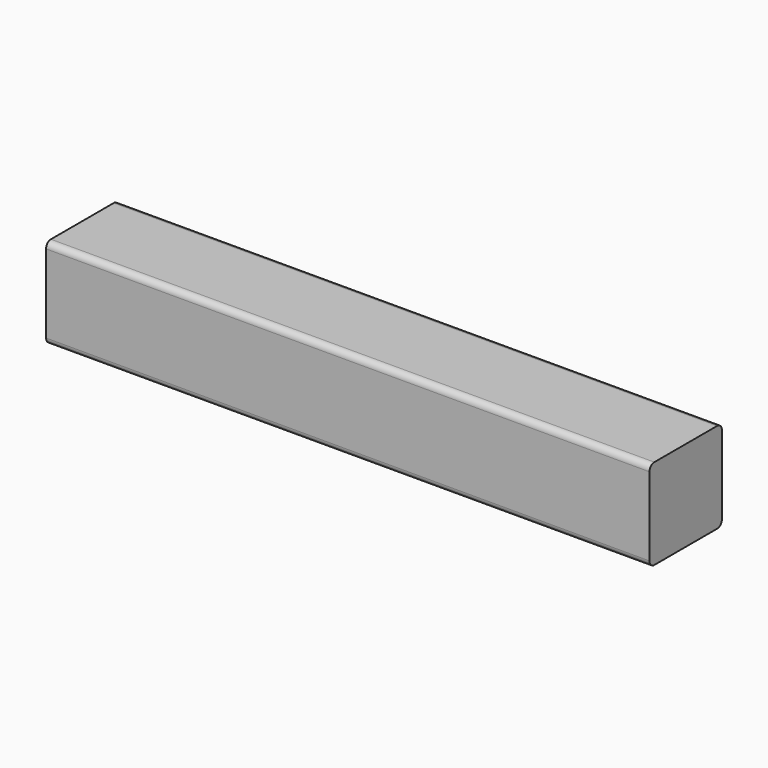
from build123d import *

# Parameters (mm, degrees)
F1_DEPTH = 254


with BuildPart() as f1:
    # F0 (on Right) → F1 (new body)
    with BuildSketch(Plane.YZ):
        with BuildLine():
            ThreePointArc((0, 2.54), (0.743949, 0.743949), (2.54, 0))
            Line((2.54, 0), (35.56, 0))
            ThreePointArc((35.56, 0), (37.356051, 0.743949), (38.1, 2.54))
            Line((38.1, 2.54), (38.1, 35.56))
            ThreePointArc((38.1, 35.56), (37.356051, 37.356051), (35.56, 38.1))
            Line((35.56, 38.1), (2.54, 38.1))
            ThreePointArc((2.54, 38.1), (0.743949, 37.356051), (0, 35.56))
            Line((0, 35.56), (0, 2.54))
        make_face()
    extrude(amount=F1_DEPTH)


solid = f1.part
